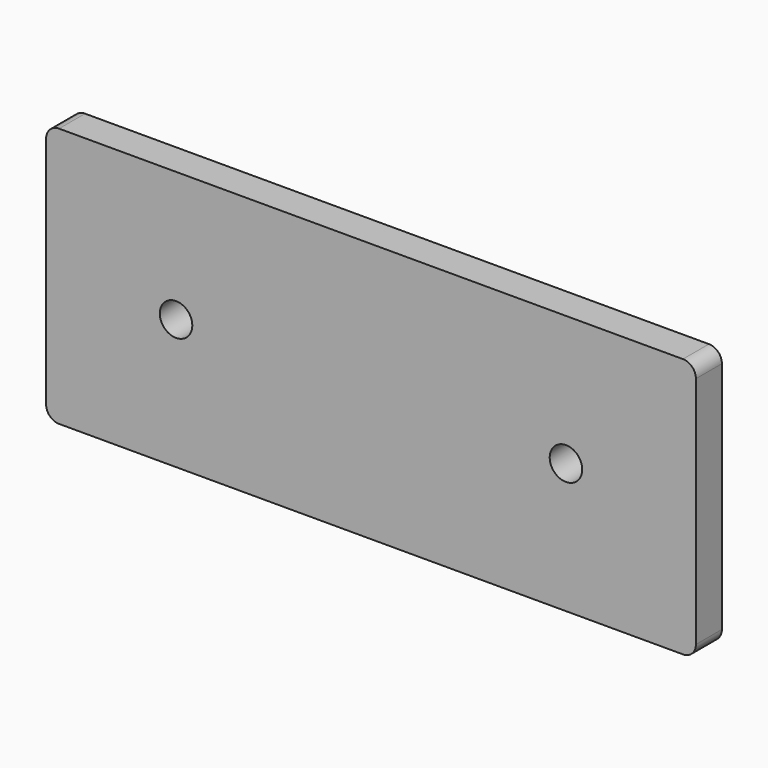
from build123d import *

# Parameters (mm, degrees)
F0_W     = 254
F0_H     = 101.6
F1_DEPTH = 12.7
F2_R     = 6.35
F3_DEPTH = 12.701
F4_R     = 5.08


with BuildPart() as f1:
    # F0 (on Front) → F1 (new body)
    with BuildSketch(Plane.XZ):
        with Locations((-127, 50.8)):
            Rectangle(F0_W, F0_H)
    extrude(amount=F1_DEPTH)

    # F2 (on face) → F3 (cut, through all)
    with BuildSketch(Plane.XZ.offset(12.7)):
        with Locations((-203.2, 50.8)):
            Circle(F2_R)
        with Locations((-50.8, 50.8)):
            Circle(F2_R)
    extrude(amount=-F3_DEPTH, mode=Mode.SUBTRACT)

    # F4
    f4_edges = [f1.edges().sort_by_distance(p)[0] for p in [
        (-254, -6.35, 0),
        (-254, -6.35, 101.6),
        (0, -6.35, 0),
        (0, -6.35, 101.6),
    ]]
    fillet(f4_edges, radius=F4_R)


solid = f1.part
